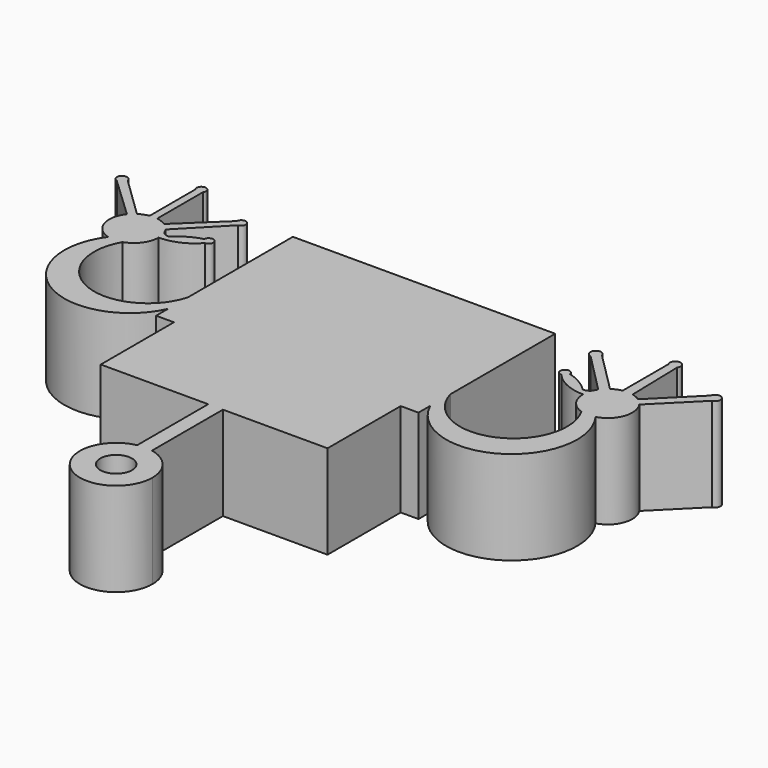
from build123d import *

# Parameters (mm, degrees)
F0_W     = 8.2024587318
F0_H     = 14.9754456007
F0_W_2   = 7.8511701431
F0_W_3   = 6.1057833955
F0_W_4   = 7.9714395106
F0_W_5   = 7.8018347267
F0_R     = 8.4758171695
F0_W_6   = 12.1613740921
F0_H_2   = 5.3091626614
F0_W_7   = 15.6213007867
F0_H_3   = 4.9807038158
F0_W_8   = 18.6961237341
F0_H_4   = 5.3202975541
F0_H_5   = 5.4446328431
F0_H_6   = 5.7703666389
F0_W_9   = 15.5081027187
F0_H_7   = 5.2070990205
F0_H_8   = 4.8675052822
F0_H_9   = 5.4084993899
F1_DEPTH = 50


with BuildPart() as f1:
    # F0 (on Top) → F1 (new body)
    with BuildSketch(Plane.XY):
        with BuildLine():
            ThreePointArc((-130.0504121954, 21.8366431133), (-119.5351660381, -29.0544007963), (-70, -13.3465658873))
            Line((-70, -13.3465658873), (-70, 0))
            ThreePointArc((-70, 0), (-108.6376082105, -18.7095534221), (-122.4410153952, 21.939900542))
            ThreePointArc((-122.4410153952, 21.939900542), (-115.7864607632, 26.7166574775), (-113.2402649142, 34.5023745845))
            ThreePointArc((-113.2402649142, 34.5023745845), (-113.504682577, 37.1288446093), (-114.2873233284, 39.649902908))
            ThreePointArc((-114.2873233284, 39.649902908), (-114.8682389509, 40.8468278409), (-115.5668931987, 41.9790709674))
            ThreePointArc((-115.5668931987, 41.9790709674), (-117.1816492611, 43.9009770114), (-119.131571718, 45.4817876878))
            ThreePointArc((-119.131571718, 45.4817876878), (-121.6544110929, 46.7882256944), (-124.398651027, 47.5235120068))
            ThreePointArc((-124.398651027, 47.5235120068), (-126.416883712, 47.6789933823), (-128.435116397, 47.5235120068))
            ThreePointArc((-128.435116397, 47.5235120068), (-131.1335313279, 46.8058910822), (-133.6201487451, 45.5357900033))
            ThreePointArc((-133.6201487451, 45.5357900033), (-135.2768725539, 44.2555218029), (-136.7098901894, 42.7289960416))
            ThreePointArc((-136.7098901894, 42.7289960416), (-138.9711537713, 30.5006766677), (-130.0504121954, 21.8366431133))
        make_face()
        Polygon((-60.5054162443, -21.2038177997), (-60.5054162443, -70), (-3.1736695673, -70), (4.6835821122, -70), (60.5054162443, -70), (60.5054162443, -21.2038177997), (70, -21.2038177997), (70, -13.3465658873), (70, 0), (70, 70), (-70, 70), (-70, 0), (-70, -13.3465658873), (-70, -21.2038177997), align=None)
        with BuildLine():
            ThreePointArc((-43.5259640217, -35.8406656981), (-42.5875064789, -55.7965331861), (-45.3945958096, -36.01680621))
            Line((-45.3945958096, -36.01680621), (-43.5259640217, -45.8406656981))
            Line((-43.5259640217, -45.8406656981), (-43.5259640217, -35.8406656981))
        make_face(mode=Mode.SUBTRACT)
        with BuildLine():
            ThreePointArc((-23.7259689531, -44.2763551831), (-3.9628669783, -47.186751296), (-23.9153972382, -46.2135393839))
            Line((-23.9153972382, -46.2135393839), (-13.9153972382, -46.2135393839))
            Line((-13.9153972382, -46.2135393839), (-23.7259689531, -44.2763551831))
        make_face(mode=Mode.SUBTRACT)
        with BuildLine():
            ThreePointArc((19.5891654442, -54.8887500712), (9.3177240714, -37.773142046), (21.6384869115, -53.4780886866))
            Line((21.6384869115, -53.4780886866), (14.9877956137, -46.0102707148))
            Line((14.9877956137, -46.0102707148), (19.5891654442, -54.8887500712))
        make_face(mode=Mode.SUBTRACT)
        with BuildLine():
            ThreePointArc((54.2939669435, -47.4309626042), (34.5934502284, -44.1615858906), (54.5334093753, -45.2557577961))
            Line((54.5334093753, -45.2557577961), (44.5334093753, -45.2557577961))
            Line((44.5334093753, -45.2557577961), (54.2939669435, -47.4309626042))
        make_face(mode=Mode.SUBTRACT)
        Polygon((-29.1168112308, 17.9860703647), (-47.8129349649, 17.9860703647), (-47.8129349649, 23.3945697546), (-47.8129349649, 28.7148673087), (-47.8129349649, 33.6955711246), (-47.8129349649, 39.1402039677), (-47.8129349649, 44.4493666291), (-47.8129349649, 49.6564656496), (-47.8129349649, 54.5239709318), (-47.8129349649, 60.2943375707), (-29.1168112308, 60.2943375707), (-10.7625117525, 60.2943375707), (4.5221573673, 60.2943375707), (20.0302600861, 60.2943375707), (35.6515608728, 60.2943375707), (47.8129349649, 60.2943375707), (47.8129349649, 54.5239709318), (47.8129349649, 49.6564656496), (47.8129349649, 44.4493666291), (47.8129349649, 39.1402039677), (47.8129349649, 33.6955711246), (47.8129349649, 28.7148673087), (47.8129349649, 23.3945697546), (47.8129349649, 17.9860703647), (35.6515608728, 17.9860703647), (20.0302600861, 17.9860703647), (4.5221573673, 17.9860703647), (-10.3591205552, 17.9860703647), align=None, mode=Mode.SUBTRACT)
        Polygon((-10.1461857557, -13.2323872645), (-18.1176252663, -13.2323872645), (-18.1176252663, 1.7430583362), (-10.1461857557, 1.7430583362), (-4.0404023603, 1.7430583362), (3.7614323664, 1.7430583362), (11.6126025096, 1.7430583362), (19.8150612414, 1.7430583362), (19.8150612414, -13.2323872645), (11.6126025096, -13.2323872645), (3.7614323664, -13.2323872645), (-4.0404023603, -13.2323872645), align=None, mode=Mode.SUBTRACT)
        with BuildLine():
            Line((70, 0), (70, -13.3465658873))
            ThreePointArc((70, -13.3465658873), (119.5351660381, -29.0544007963), (130.0504121954, 21.8366431133))
            ThreePointArc((130.0504121954, 21.8366431133), (138.8200130193, 30.0542664106), (137.2715918614, 41.9722202276))
            ThreePointArc((137.2715918614, 41.9722202276), (135.734160217, 43.8196510895), (133.8867293551, 45.3570827339))
            ThreePointArc((133.8867293551, 45.3570827339), (131.7614666088, 46.5464069906), (129.4536248278, 47.3242888853))
            ThreePointArc((129.4536248278, 47.3242888853), (126.7455827995, 47.674892941), (124.0234244804, 47.4597908334))
            ThreePointArc((124.0234244804, 47.4597908334), (121.3744087449, 46.6759824781), (118.9470358244, 45.3570811894))
            ThreePointArc((118.9470358244, 45.3570811894), (117.0424209259, 43.7621116442), (115.4710238, 41.8380022828))
            ThreePointArc((115.4710238, 41.8380022828), (114.8274186608, 40.7719505485), (114.2873233284, 39.649902908))
            ThreePointArc((114.2873233284, 39.649902908), (113.504682577, 37.1288446093), (113.2402649142, 34.5023745845))
            ThreePointArc((113.2402649142, 34.5023745845), (115.7864607632, 26.7166574775), (122.4410153952, 21.939900542))
            ThreePointArc((122.4410153952, 21.939900542), (108.6376082105, -18.7095534221), (70, 0))
        make_face()
        with BuildLine():
            ThreePointArc((95.0937389393, 42.679719094), (103.288313244, 36.6411293585), (113.2402649142, 34.5023745845))
            ThreePointArc((113.2402649142, 34.5023745845), (113.504682577, 37.1288446093), (114.2873233284, 39.649902908))
            ThreePointArc((114.2873233284, 39.649902908), (112.5739963411, 38.250429476), (110.3945353679, 37.8710021204))
            ThreePointArc((110.3945353679, 37.8710021204), (104.4646528089, 42.4765419774), (97.539836383, 45.3785106205))
            ThreePointArc((97.539836383, 45.3785106205), (93.2143177046, 46.8410933875), (95.0937389393, 42.679719094))
        make_face()
        with BuildLine():
            Line((94.0459784419, 63.5174356565), (115.4710238, 41.8380022828))
            ThreePointArc((115.4710238, 41.8380022828), (117.0424209259, 43.7621116442), (118.9470358244, 45.3570811894))
            Line((118.9470358244, 45.3570811894), (97.3944211338, 66.9096958799))
            ThreePointArc((97.3944211338, 66.9096958799), (92.5628075217, 68.330174272), (94.0459784419, 63.5174356565))
        make_face()
        with BuildLine():
            ThreePointArc((124.0234244804, 47.4597908334), (126.7455827995, 47.674892941), (129.4536248278, 47.3242888853))
            Line((129.4536248278, 47.3242888853), (128.7094544186, 77.7952030561))
            ThreePointArc((128.7094544186, 77.7952030561), (126.5050371575, 82.3593912177), (124.0234244804, 77.9397908334))
            Line((124.0234244804, 77.9397908334), (124.0234244804, 47.4597908334))
        make_face()
        with BuildLine():
            ThreePointArc((133.8867293551, 45.3570827339), (135.734160217, 43.8196510895), (137.2715918614, 41.9722202276))
            Line((137.2715918614, 41.9722202276), (158.824206552, 63.5248349182))
            ThreePointArc((158.824206552, 63.5248349182), (160.2578661303, 68.3433570028), (155.4393440457, 66.9096974245))
            Line((155.4393440457, 66.9096974245), (133.8867293551, 45.3570827339))
        make_face()
        with BuildLine():
            Line((-158.8719812907, 63.6543901362), (-136.7098901894, 42.7289960416))
            ThreePointArc((-136.7098901894, 42.7289960416), (-135.2768725539, 44.2555218029), (-133.6201487451, 45.5357900033))
            Line((-133.6201487451, 45.5357900033), (-155.5248616789, 66.7304579953))
            ThreePointArc((-155.5248616789, 66.7304579953), (-160.0923686659, 68.3413751972), (-158.8719812907, 63.6543901362))
        make_face()
        with BuildLine():
            Line((-128.435116397, 78.0035120068), (-128.435116397, 47.5235120068))
            ThreePointArc((-128.435116397, 47.5235120068), (-126.416883712, 47.6789933823), (-124.398651027, 47.5235120068))
            Line((-124.398651027, 47.5235120068), (-124.398651027, 78.0035120068))
            ThreePointArc((-124.398651027, 78.0035120068), (-126.416883712, 82.016306206), (-128.435116397, 78.0035120068))
        make_face()
        with BuildLine():
            ThreePointArc((-119.131571718, 45.4817876878), (-117.1816492611, 43.9009770114), (-115.5668931987, 41.9790709674))
            Line((-115.5668931987, 41.9790709674), (-94.333186417, 63.8459430874))
            ThreePointArc((-94.333186417, 63.8459430874), (-92.8588034867, 68.1053754047), (-97.0792408983, 66.5228215363))
            Line((-97.0792408983, 66.5228215363), (-119.131571718, 45.4817876878))
        make_face()
        with BuildLine():
            ThreePointArc((-114.2873233284, 39.649902908), (-113.504682577, 37.1288446093), (-113.2402649142, 34.5023745845))
            ThreePointArc((-113.2402649142, 34.5023745845), (-103.288313244, 36.6411293585), (-95.0937389393, 42.679719094))
            ThreePointArc((-95.0937389393, 42.679719094), (-93.2143177046, 46.8410933875), (-97.539836383, 45.3785106205))
            ThreePointArc((-97.539836383, 45.3785106205), (-104.4646528089, 42.4765419774), (-110.3945353679, 37.8710021204))
            ThreePointArc((-110.3945353679, 37.8710021204), (-112.5739963411, 38.250429476), (-114.2873233284, 39.649902908))
        make_face()
        with BuildLine():
            Line((-43.5259640217, -45.8406656981), (-45.3945958096, -36.01680621))
            ThreePointArc((-45.3945958096, -36.01680621), (-42.5875064789, -55.7965331861), (-43.5259640217, -35.8406656981))
            Line((-43.5259640217, -35.8406656981), (-43.5259640217, -45.8406656981))
        make_face()
        with BuildLine():
            Line((-13.9153972382, -46.2135393839), (-23.9153972382, -46.2135393839))
            ThreePointArc((-23.9153972382, -46.2135393839), (-3.9628669783, -47.186751296), (-23.7259689531, -44.2763551831))
            Line((-23.7259689531, -44.2763551831), (-13.9153972382, -46.2135393839))
        make_face()
        with BuildLine():
            Line((14.9877956137, -46.0102707148), (21.6384869115, -53.4780886866))
            ThreePointArc((21.6384869115, -53.4780886866), (9.3177240714, -37.773142046), (19.5891654442, -54.8887500712))
            Line((19.5891654442, -54.8887500712), (14.9877956137, -46.0102707148))
        make_face()
        with BuildLine():
            Line((44.5334093753, -45.2557577961), (54.5334093753, -45.2557577961))
            ThreePointArc((54.5334093753, -45.2557577961), (34.5934502284, -44.1615858906), (54.2939669435, -47.4309626042))
            Line((54.2939669435, -47.4309626042), (44.5334093753, -45.2557577961))
        make_face()
        with Locations((15.7138318755, -5.7446644641)):
            Rectangle(F0_W, F0_H)
        with Locations((7.687017438, -5.7446644641)):
            Rectangle(F0_W_2, F0_H)
        with Locations((-7.093294058, -5.7446644641)):
            Rectangle(F0_W_3, F0_H)
        with Locations((-14.131905511, -5.7446644641)):
            Rectangle(F0_W_4, F0_H)
        with Locations((-0.1394849969, -5.7446644641)):
            Rectangle(F0_W_5, F0_H)
        with BuildLine():
            Line((4.6835821122, -70), (-3.1736695673, -70))
            Line((-3.1736695673, -70), (-3.1736695673, -117.3349233655))
            ThreePointArc((-3.1736695673, -117.3349233655), (0.7549562724, -116.9320700406), (4.6835821122, -117.3349233655))
            Line((4.6835821122, -117.3349233655), (4.6835821122, -70))
        make_face()
        with BuildLine():
            ThreePointArc((4.6835821122, -117.3349233655), (0.7549562724, -116.9320700406), (-3.1736695673, -117.3349233655))
            ThreePointArc((-3.1736695673, -117.3349233655), (-11.4651338896, -151.3020925139), (20.1123635802, -136.2894773483))
            ThreePointArc((20.1123635802, -136.2894773483), (15.767571438, -124.0693871863), (4.6835821122, -117.3349233655))
        make_face()
        with Locations((0.7549562724, -136.2894773483)):
            Circle(F0_R, mode=Mode.SUBTRACT)
        with Locations((41.7322479188, 41.7947852984)):
            Rectangle(F0_W_6, F0_H_2)
        with Locations((27.8409104794, 31.2052192166)):
            Rectangle(F0_W_7, F0_H_3)
        with Locations((-38.4648730978, 26.0547185317)):
            Rectangle(F0_W_8, F0_H_4)
        Polygon((-10.5089039129, 33.6955711246), (-10.4614150364, 28.7148673087), (4.5221573673, 28.7148673087), (4.5221573673, 33.6955711246), align=None)
        with Locations((27.8409104794, 36.4178875461)):
            Rectangle(F0_W_7, F0_H_5)
        with Locations((27.8409104794, 57.4091542512)):
            Rectangle(F0_W_7, F0_H_6)
        Polygon((-29.1168112308, 33.6955711246), (-29.1168112308, 28.7148673087), (-10.4614150364, 28.7148673087), (-10.5089039129, 33.6955711246), align=None)
        with Locations((41.7322479188, 26.0547185317)):
            Rectangle(F0_W_6, F0_H_4)
        Polygon((-10.4106882792, 23.3945697546), (-10.3591205552, 17.9860703647), (4.5221573673, 17.9860703647), (4.5221573673, 23.3945697546), align=None)
        Polygon((-29.1168112308, 23.3945697546), (-29.1168112308, 17.9860703647), (-10.3591205552, 17.9860703647), (-10.4106882792, 23.3945697546), align=None)
        Polygon((-29.1168112308, 60.2943375707), (-29.1168112308, 54.5239709318), (-10.7074937794, 54.5239709318), (-10.7625117525, 60.2943375707), align=None)
        Polygon((-29.1168112308, 54.5239709318), (-29.1168112308, 49.6564656496), (-10.6610842025, 49.6564656496), (-10.7074937794, 54.5239709318), align=None)
        with Locations((12.2762087267, 31.2052192166)):
            Rectangle(F0_W_9, F0_H_3)
        with Locations((27.8409104794, 41.7947852984)):
            Rectangle(F0_W_7, F0_H_2)
        Polygon((-29.1168112308, 39.1402039677), (-29.1168112308, 33.6955711246), (-10.5089039129, 33.6955711246), (-10.5608161539, 39.1402039677), align=None)
        with Locations((12.2762087267, 47.0529161394)):
            Rectangle(F0_W_9, F0_H_7)
        with Locations((41.7322479188, 31.2052192166)):
            Rectangle(F0_W_6, F0_H_3)
        with Locations((-38.4648730978, 31.2052192166)):
            Rectangle(F0_W_8, F0_H_3)
        Polygon((-10.7074937794, 54.5239709318), (-10.6610842025, 49.6564656496), (4.5221573673, 49.6564656496), (4.5221573673, 54.5239709318), align=None)
        with Locations((12.2762087267, 52.0902182907)):
            Rectangle(F0_W_9, F0_H_8)
        with Locations((-38.4648730978, 36.4178875461)):
            Rectangle(F0_W_8, F0_H_5)
        with Locations((27.8409104794, 47.0529161394)):
            Rectangle(F0_W_7, F0_H_7)
        Polygon((-29.1168112308, 28.7148673087), (-29.1168112308, 23.3945697546), (-10.4106882792, 23.3945697546), (-10.4614150364, 28.7148673087), align=None)
        with Locations((41.7322479188, 36.4178875461)):
            Rectangle(F0_W_6, F0_H_5)
        with Locations((41.7322479188, 20.6903200597)):
            Rectangle(F0_W_6, F0_H_9)
        Polygon((-10.4614150364, 28.7148673087), (-10.4106882792, 23.3945697546), (4.5221573673, 23.3945697546), (4.5221573673, 28.7148673087), align=None)
        with Locations((-38.4648730978, 20.6903200597)):
            Rectangle(F0_W_8, F0_H_9)
        Polygon((-10.7625117525, 60.2943375707), (-10.7074937794, 54.5239709318), (4.5221573673, 54.5239709318), (4.5221573673, 60.2943375707), align=None)
        with Locations((41.7322479188, 47.0529161394)):
            Rectangle(F0_W_6, F0_H_7)
        with Locations((12.2762087267, 20.6903200597)):
            Rectangle(F0_W_9, F0_H_9)
        with Locations((41.7322479188, 52.0902182907)):
            Rectangle(F0_W_6, F0_H_8)
        with Locations((27.8409104794, 20.6903200597)):
            Rectangle(F0_W_7, F0_H_9)
        with Locations((27.8409104794, 52.0902182907)):
            Rectangle(F0_W_7, F0_H_8)
        with Locations((-38.4648730978, 41.7947852984)):
            Rectangle(F0_W_8, F0_H_2)
        with Locations((41.7322479188, 57.4091542512)):
            Rectangle(F0_W_6, F0_H_6)
        with Locations((12.2762087267, 57.4091542512)):
            Rectangle(F0_W_9, F0_H_6)
        with Locations((12.2762087267, 26.0547185317)):
            Rectangle(F0_W_9, F0_H_4)
        with Locations((-38.4648730978, 57.4091542512)):
            Rectangle(F0_W_8, F0_H_6)
        Polygon((-29.1168112308, 49.6564656496), (-29.1168112308, 44.4493666291), (-10.6114367447, 44.4493666291), (-10.6610842025, 49.6564656496), align=None)
        Polygon((-10.6610842025, 49.6564656496), (-10.6114367447, 44.4493666291), (4.5221573673, 44.4493666291), (4.5221573673, 49.6564656496), align=None)
        Polygon((-10.6114367447, 44.4493666291), (-10.5608161539, 39.1402039677), (4.5221573673, 39.1402039677), (4.5221573673, 44.4493666291), align=None)
        with Locations((-38.4648730978, 52.0902182907)):
            Rectangle(F0_W_8, F0_H_8)
        with Locations((12.2762087267, 41.7947852984)):
            Rectangle(F0_W_9, F0_H_2)
        Polygon((-10.5608161539, 39.1402039677), (-10.5089039129, 33.6955711246), (4.5221573673, 33.6955711246), (4.5221573673, 39.1402039677), align=None)
        Polygon((-29.1168112308, 44.4493666291), (-29.1168112308, 39.1402039677), (-10.5608161539, 39.1402039677), (-10.6114367447, 44.4493666291), align=None)
        with Locations((27.8409104794, 26.0547185317)):
            Rectangle(F0_W_7, F0_H_4)
        with Locations((12.2762087267, 36.4178875461)):
            Rectangle(F0_W_9, F0_H_5)
        with Locations((-38.4648730978, 47.0529161394)):
            Rectangle(F0_W_8, F0_H_7)
    extrude(amount=F1_DEPTH)


solid = f1.part
